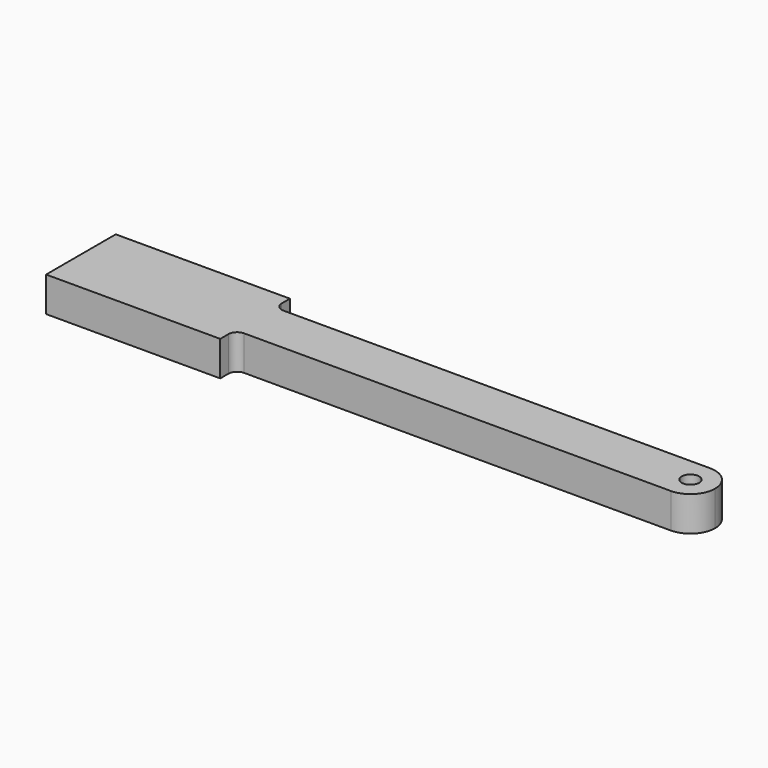
from build123d import *

# Parameters (mm, degrees)
F0_R     = 2
F1_DEPTH = 8


with BuildPart() as f1:
    # F0 (on Top) → F1 (new body)
    with BuildSketch(Plane.XY):
        with BuildLine():
            Line((-20, -10), (20, -10))
            Line((20, -10), (20, -7.65))
            ThreePointArc((20, -7.65), (20.585786, -6.235786), (22, -5.65))
            Line((22, -5.65), (120, -5.65))
            ThreePointArc((120, -5.65), (114.35, 0), (120, 5.65))
            Line((120, 5.65), (22, 5.65))
            ThreePointArc((22, 5.65), (20.585786, 6.235786), (20, 7.65))
            Line((20, 7.65), (20, 10))
            Line((20, 10), (-20, 10))
            Line((-20, 10), (-20, -10))
        make_face()
        with BuildLine():
            ThreePointArc((120, 5.65), (114.35, 0), (120, -5.65))
            ThreePointArc((120, -5.65), (123.995153, -3.995153), (125.65, 0))
            ThreePointArc((125.65, 0), (123.995153, 3.995153), (120, 5.65))
        make_face()
        with Locations((120, 0)):
            Circle(F0_R, mode=Mode.SUBTRACT)
    extrude(amount=F1_DEPTH)


solid = f1.part
